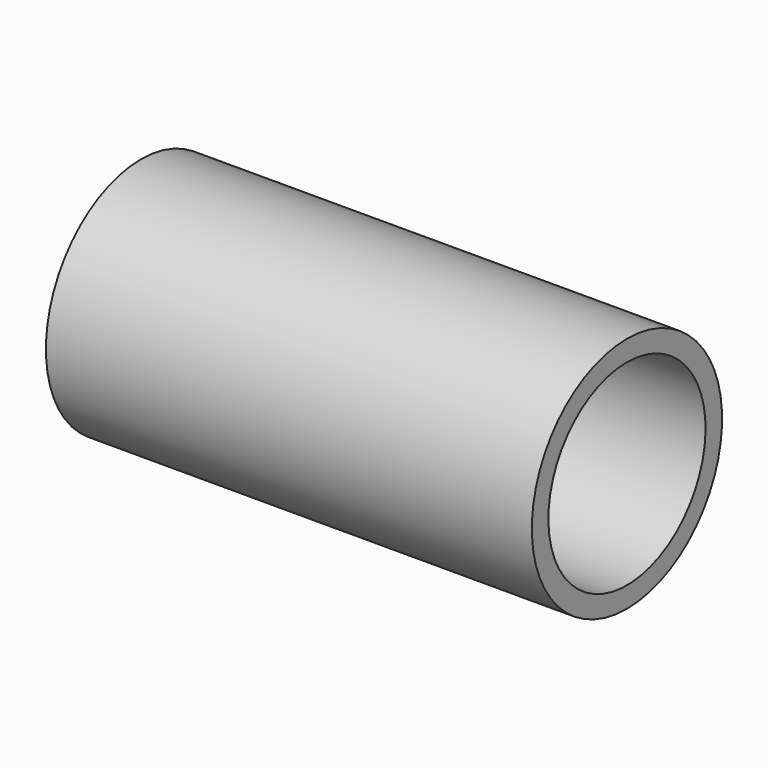
from build123d import *

# Parameters (mm, degrees)
F0_W = 2
F0_H = 3.5


with BuildPart() as f2:
    # F0 (on Front) → F2 (revolve)
    with BuildSketch(Plane.XZ):
        Polygon((-23.5, 11.5), (-23.5, 9.5), (-21.5, 9.5), (23.5, 9.5), (23.5, 11.5), align=None)
        with Locations((-22.5, 7.75)):
            Rectangle(F0_W, F0_H)
    revolve(axis=Axis((-0.092756, 0, 0), (1, 0, 0)))


solid = f2.part
